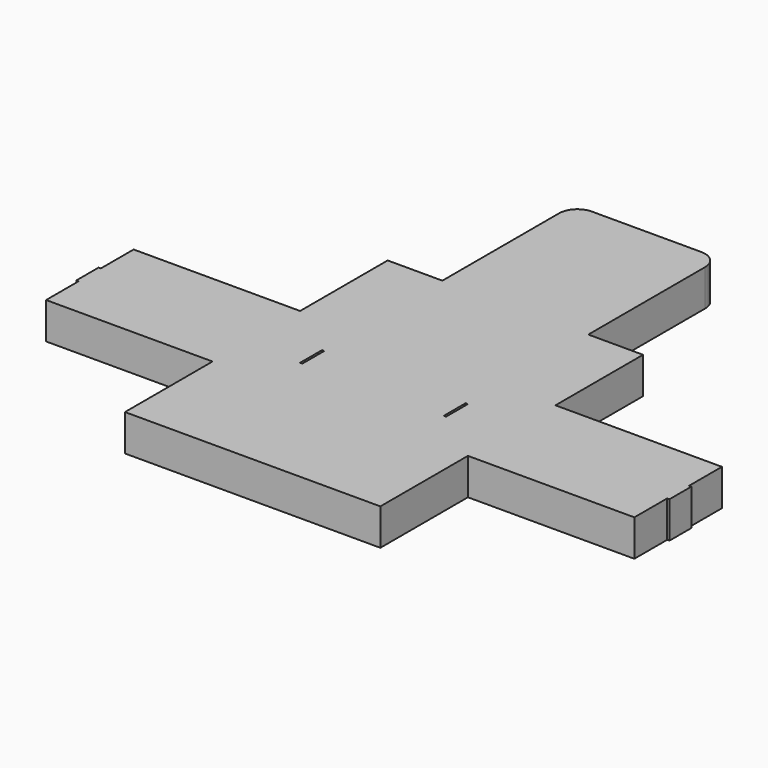
from build123d import *

# Parameters (mm, degrees)
F0_W     = 38.1
F0_H     = 76.2
F0_W_2   = 101.6
F0_W_3   = 1.5875
F0_H_2   = 19.05
F1_DEPTH = 25.4


with BuildPart() as f1:
    # F0 (on Top) → F1 (new body)
    with BuildSketch(Plane.XY):
        Polygon((88.9, 38.1), (50.8, 38.1), (50.8, 9.525), (50.8, -9.525), (50.8, -38.1), (88.9, -38.1), (127, -38.1), (127, 38.1), align=None)
        with Locations((69.85, 76.2)):
            Rectangle(F0_W, F0_H)
        with Locations((0, 76.2)):
            Rectangle(F0_W_2, F0_H)
        Polygon((-50.8, 9.525), (-50.8, 38.1), (-88.9, 38.1), (-127, 38.1), (-127, -38.1), (-88.9, -38.1), (-50.8, -38.1), (-50.8, -9.525), align=None)
        with Locations((-69.85, 76.2)):
            Rectangle(F0_W, F0_H)
        with Locations((0, 152.4)):
            Rectangle(F0_W_2, F0_H)
        with Locations((127.79375, 0)):
            Rectangle(F0_W_3, F0_H)
        with BuildLine():
            Line((-50.8, 190.5), (50.8, 190.5))
            Line((50.8, 190.5), (50.8, 215.9))
            ThreePointArc((50.8, 215.9), (47.0802561211, 224.8802561211), (38.1, 228.6))
            Line((38.1, 228.6), (-38.1, 228.6))
            ThreePointArc((-38.1, 228.6), (-47.0802561211, 224.8802561211), (-50.8, 215.9))
            Line((-50.8, 215.9), (-50.8, 190.5))
        make_face()
        with Locations((-127.79375, 0)):
            Rectangle(F0_W_3, F0_H)
        with Locations((0, -76.2)):
            Rectangle(F0_W_2, F0_H)
        with Locations((69.85, -76.2)):
            Rectangle(F0_W, F0_H)
        Polygon((204.7875, 38.1), (128.5875, 38.1), (128.5875, -38.1), (204.7875, -38.1), (204.7875, -9.525), (204.7875, 9.525), align=None)
        with Locations((-69.85, -76.2)):
            Rectangle(F0_W, F0_H)
        Polygon((-128.5875, -38.1), (-128.5875, 38.1), (-204.7875, 38.1), (-204.7875, 9.525), (-204.7875, -9.525), (-204.7875, -38.1), align=None)
        with Locations((205.58125, 0)):
            Rectangle(F0_W_3, F0_H_2)
        with Locations((-205.58125, 0)):
            Rectangle(F0_W_3, F0_H_2)
        Polygon((50.8, 9.525), (50.8, 38.1), (-50.8, 38.1), (-50.8, 9.525), (-49.2125, 9.525), (-49.2125, -9.525), (-50.8, -9.525), (-50.8, -38.1), (50.8, -38.1), (50.8, -9.525), (49.2125, -9.525), (49.2125, 9.525), align=None)
    extrude(amount=F1_DEPTH)


solid = f1.part
